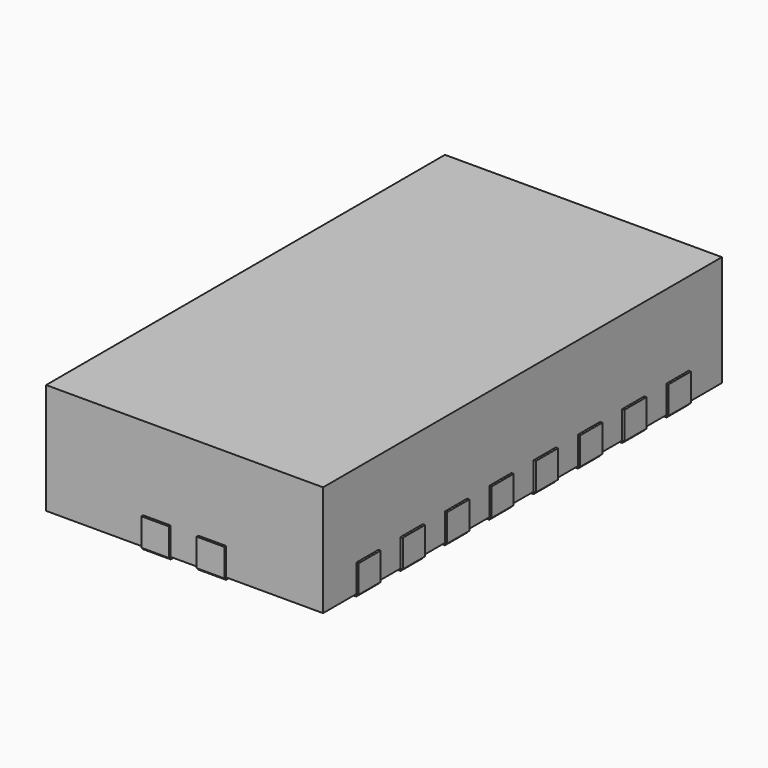
from build123d import *

# Parameters (mm, degrees)
SKETCH_W               = 2.5
SKETCH_H               = 4.5
PAD_DEPTH              = 1
SKETCH001_W            = 0.25
SKETCH001_H            = 0.25
PAD001_DEPTH           = 0.02
LINEARPATTERN_COUNT    = 2
LINEARPATTERN_PITCH    = 2.52
SKETCH002_W            = 0.25
SKETCH002_H            = 0.25
PAD002_DEPTH           = 0.02
LINEARPATTERN001_COUNT = 2
LINEARPATTERN001_PITCH = 4.52
SKETCH003_W            = 0.65
SKETCH003_H            = 0.25
SKETCH003_W_2          = 0.25
SKETCH003_H_2          = 0.65
PAD003_DEPTH           = 0.02


with BuildPart() as part:
    # Sketch → Pad (new body)
    with BuildSketch(Plane.XY):
        Rectangle(SKETCH_W, SKETCH_H)
    extrude(amount=PAD_DEPTH)

    # Sketch001 (on Face2 of Pad) → Pad001 (join)
    with BuildSketch(Plane.YZ.offset(1.25)):
        with Locations((-0.25, 0.125)):
            Rectangle(SKETCH001_W, SKETCH001_H)
        with Locations((0.25, 0.125)):
            Rectangle(SKETCH001_W, SKETCH001_H)
        with Locations((-0.75, 0.125)):
            Rectangle(SKETCH001_W, SKETCH001_H)
        with Locations((-1.75, 0.125)):
            Rectangle(SKETCH001_W, SKETCH001_H)
        with Locations((-1.25, 0.125)):
            Rectangle(SKETCH001_W, SKETCH001_H)
        with Locations((0.75, 0.125)):
            Rectangle(SKETCH001_W, SKETCH001_H)
        with Locations((1.25, 0.125)):
            Rectangle(SKETCH001_W, SKETCH001_H)
        with Locations((1.75, 0.125)):
            Rectangle(SKETCH001_W, SKETCH001_H)
    pad001 = extrude(amount=PAD001_DEPTH)

    # LinearPattern: Pad001 ×2
    with Locations(*[(-i * LINEARPATTERN_PITCH, 0, 0) for i in range(1, LINEARPATTERN_COUNT)]):
        add(pad001)

    # Sketch002 (on Face30 of LinearPattern) → Pad002 (join)
    with BuildSketch(Plane.XZ.offset(2.25)):
        with Locations((-0.25, 0.125)):
            Rectangle(SKETCH002_W, SKETCH002_H)
        with Locations((0.25, 0.125)):
            Rectangle(SKETCH002_W, SKETCH002_H)
    pad002 = extrude(amount=PAD002_DEPTH)

    # LinearPattern001: Pad002 ×2
    with Locations(*[(0, i * LINEARPATTERN001_PITCH, 0) for i in range(1, LINEARPATTERN001_COUNT)]):
        add(pad002)

    # Sketch003 (on Face2 of LinearPattern001) → Pad003 (join)
    with BuildSketch(Plane(origin=(0, 0, 0), x_dir=(1, 0, 0), z_dir=(0, 0, -1))):
        with Locations((-0.925, 1.75)):
            Rectangle(SKETCH003_W, SKETCH003_H)
        with Locations((-0.925, 1.25)):
            Rectangle(SKETCH003_W, SKETCH003_H)
        with Locations((-0.925, 0.75)):
            Rectangle(SKETCH003_W, SKETCH003_H)
        with Locations((-0.925, 0.25)):
            Rectangle(SKETCH003_W, SKETCH003_H)
        with Locations((-0.925, -0.25)):
            Rectangle(SKETCH003_W, SKETCH003_H)
        with Locations((-0.925, -0.75)):
            Rectangle(SKETCH003_W, SKETCH003_H)
        with Locations((-0.925, -1.25)):
            Rectangle(SKETCH003_W, SKETCH003_H)
        with Locations((-0.925, -1.75)):
            Rectangle(SKETCH003_W, SKETCH003_H)
        with Locations((-0.25, -1.925)):
            Rectangle(SKETCH003_W_2, SKETCH003_H_2)
        with Locations((0.25, -1.925)):
            Rectangle(SKETCH003_W_2, SKETCH003_H_2)
        with Locations((0.925, -1.75)):
            Rectangle(SKETCH003_W, SKETCH003_H)
        with Locations((0.925, -1.25)):
            Rectangle(SKETCH003_W, SKETCH003_H)
        with Locations((0.925, -0.75)):
            Rectangle(SKETCH003_W, SKETCH003_H)
        with Locations((0.925, -0.25)):
            Rectangle(SKETCH003_W, SKETCH003_H)
        with Locations((0.925, 0.25)):
            Rectangle(SKETCH003_W, SKETCH003_H)
        with Locations((0.925, 0.75)):
            Rectangle(SKETCH003_W, SKETCH003_H)
        with Locations((0.925, 1.25)):
            Rectangle(SKETCH003_W, SKETCH003_H)
        with Locations((0.925, 1.75)):
            Rectangle(SKETCH003_W, SKETCH003_H)
        with Locations((0.25, 1.925)):
            Rectangle(SKETCH003_W_2, SKETCH003_H_2)
        with Locations((-0.25, 1.925)):
            Rectangle(SKETCH003_W_2, SKETCH003_H_2)
    extrude(amount=PAD003_DEPTH)


solid = part.part
